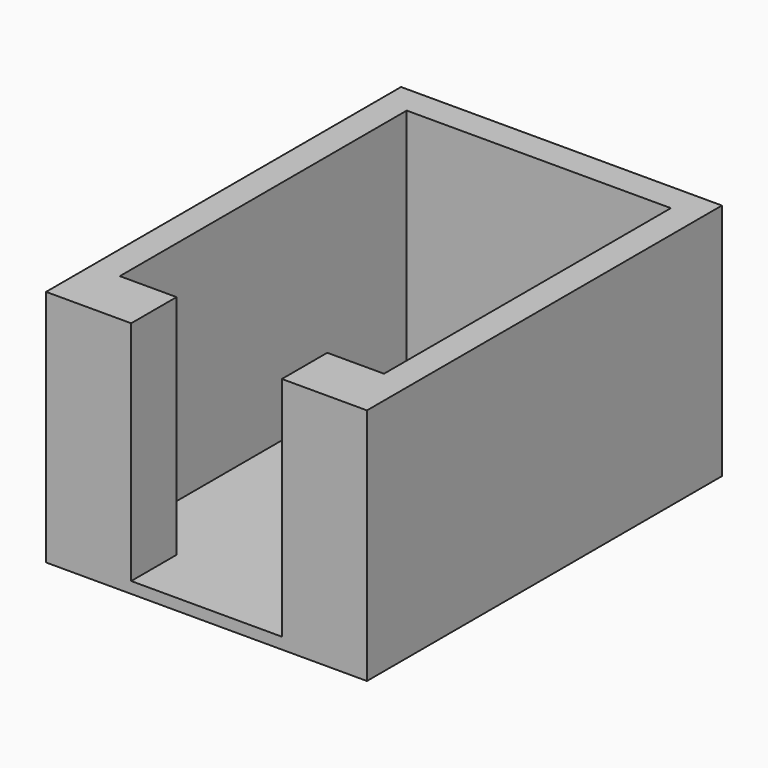
from build123d import *

# Parameters (mm, degrees)
F0_W     = 143.67862
F0_H     = 198.66103
F1_DEPTH = 5.08
F2_W     = 118.27862
F2_H     = 12.7
F2_W_2   = 25.4
F2_H_2   = 25.4
F3_DEPTH = 101.6


with BuildPart() as f1:
    # F0 (on Top) → F1 (new body)
    with BuildSketch(Plane.XY):
        Rectangle(F0_W, F0_H)
    extrude(amount=F1_DEPTH)

    # F2 (on face) → F3 (join)
    with BuildSketch(Plane.XY.offset(5.08)):
        Polygon((-59.13931, 99.330515), (-71.83931, 99.330515), (-71.83931, -99.330515), (-59.13931, -99.330515), (-59.13931, -73.930515), (-59.13931, 86.630515), align=None)
        with Locations((0, 92.980515)):
            Rectangle(F2_W, F2_H)
        Polygon((71.83931, 99.330515), (59.13931, 99.330515), (59.13931, 86.630515), (59.13931, -73.930515), (59.13931, -99.330515), (71.83931, -99.330515), align=None)
        with Locations((-46.43931, -86.630515)):
            Rectangle(F2_W_2, F2_H_2)
        with Locations((46.43931, -86.630515)):
            Rectangle(F2_W_2, F2_H_2)
    extrude(amount=F3_DEPTH)


solid = f1.part
